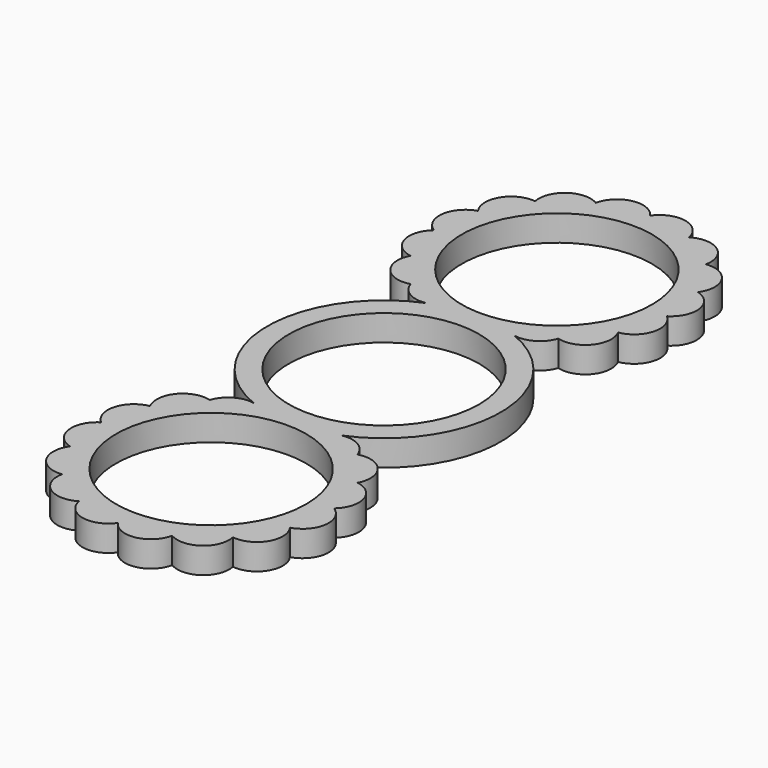
from build123d import *

# Parameters (mm, degrees)
F0_R     = 11
F1_DEPTH = 3


with BuildPart() as f1:
    # F0 (on Top) → F1 (new body)
    with BuildSketch(Plane.XY):
        with BuildLine():
            ThreePointArc((-8.542621, 14.522849), (-7.206345, 12.855125), (-5.09902, 12.5))
            ThreePointArc((-5.09902, 12.5), (-13.5, 0), (-5.09902, -12.5))
            ThreePointArc((-5.09902, -12.5), (-7.206345, -12.855125), (-8.542621, -14.522849))
            ThreePointArc((-8.542621, -14.522849), (-11.698782, -15.52812), (-12.005624, -18.826266))
            ThreePointArc((-12.005624, -18.826266), (-14.406954, -20.97996), (-13.467638, -24.065809))
            ThreePointArc((-13.467638, -24.065809), (-14.863064, -27.022206), (-12.728512, -29.49833))
            ThreePointArc((-12.728512, -29.49833), (-12.841016, -32.779343), (-9.880836, -34.198863))
            ThreePointArc((-9.880836, -34.198863), (-8.676447, -37.254249), (-5.394485, -37.37536))
            ThreePointArc((-5.394485, -37.37536), (-3.067285, -39.712639), (0, -38.5))
            ThreePointArc((0, -38.5), (3.067285, -39.712639), (5.394485, -37.37536))
            ThreePointArc((5.394485, -37.37536), (8.676447, -37.254249), (9.880836, -34.198863))
            ThreePointArc((9.880836, -34.198863), (12.841016, -32.779343), (12.728512, -29.49833))
            ThreePointArc((12.728512, -29.49833), (14.863064, -27.022206), (13.467638, -24.065809))
            ThreePointArc((13.467638, -24.065809), (14.406954, -20.97996), (12.005624, -18.826266))
            ThreePointArc((12.005624, -18.826266), (11.698782, -15.52812), (8.542621, -14.522849))
            ThreePointArc((8.542621, -14.522849), (7.206345, -12.855125), (5.09902, -12.5))
            ThreePointArc((5.09902, -12.5), (13.5, 0), (5.09902, 12.5))
            ThreePointArc((5.09902, 12.5), (7.206345, 12.855125), (8.542621, 14.522849))
            ThreePointArc((8.542621, 14.522849), (11.698782, 15.52812), (12.005624, 18.826266))
            ThreePointArc((12.005624, 18.826266), (14.406954, 20.97996), (13.467638, 24.065809))
            ThreePointArc((13.467638, 24.065809), (14.863064, 27.022206), (12.728512, 29.49833))
            ThreePointArc((12.728512, 29.49833), (12.841016, 32.779343), (9.880836, 34.198863))
            ThreePointArc((9.880836, 34.198863), (8.676447, 37.254249), (5.394485, 37.37536))
            ThreePointArc((5.394485, 37.37536), (3.067285, 39.712639), (0, 38.5))
            ThreePointArc((0, 38.5), (-3.067285, 39.712639), (-5.394485, 37.37536))
            ThreePointArc((-5.394485, 37.37536), (-8.676447, 37.254249), (-9.880836, 34.198863))
            ThreePointArc((-9.880836, 34.198863), (-12.841016, 32.779343), (-12.728512, 29.49833))
            ThreePointArc((-12.728512, 29.49833), (-14.863064, 27.022206), (-13.467638, 24.065809))
            ThreePointArc((-13.467638, 24.065809), (-14.406954, 20.97996), (-12.005624, 18.826266))
            ThreePointArc((-12.005624, 18.826266), (-11.698782, 15.52812), (-8.542621, 14.522849))
        make_face()
        with Locations((0, -25)):
            Circle(F0_R, mode=Mode.SUBTRACT)
        Circle(F0_R, mode=Mode.SUBTRACT)
        with Locations((0, 25)):
            Circle(F0_R, mode=Mode.SUBTRACT)
    extrude(amount=-F1_DEPTH)


solid = f1.part
